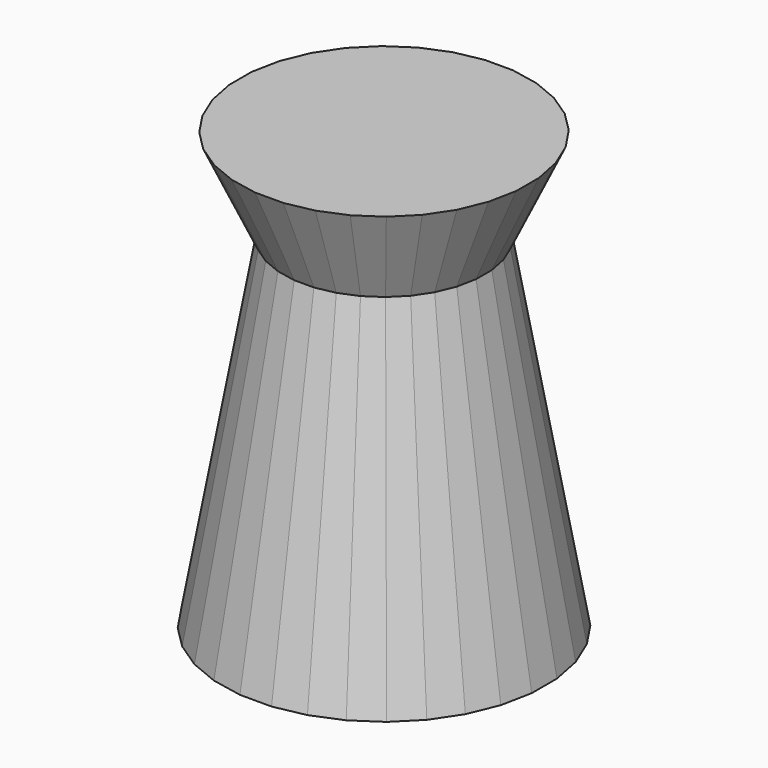
from build123d import *

# Parameters (mm, degrees)
F1_DEPTH      = 50
F1_TAPER      = -25
F1_DEPTH_BACK = 183
F1_TAPER_BACK = -10


with BuildPart() as f1:
    # F0 (on Top) → F1 (new body, two sides)
    with BuildSketch(Plane.XY) as f1_sk:
        Polygon((13.6030390859, -5.2612845288), (13.6030390859, 5.2612845288), (11.5501877, 15.5816653725), (7.5233748557, 25.3032515542), (1.6773487125, 34.0524479689), (-5.7632312236, 41.493027905), (-14.5124276384, 47.3390540483), (-24.2340138201, 51.3658668925), (-34.5543946638, 53.4187182784), (-45.0769637213, 53.4187182784), (-55.397344565, 51.3658668925), (-65.1189307467, 47.3390540483), (-73.8681271614, 41.493027905), (-81.3087070976, 34.0524479689), (-87.1547332408, 25.3032515542), (-91.1815460851, 15.5816653725), (-93.234397471, 5.2612845288), (-93.234397471, -5.2612845288), (-91.1815460851, -15.5816653725), (-87.1547332408, -25.3032515542), (-81.3087070976, -34.0524479689), (-73.8681271614, -41.493027905), (-65.1189307467, -47.3390540483), (-55.397344565, -51.3658668925), (-45.0769637213, -53.4187182784), (-34.5543946638, -53.4187182784), (-24.2340138201, -51.3658668925), (-14.5124276384, -47.3390540483), (-5.7632312236, -41.493027905), (1.6773487125, -34.0524479689), (7.5233748557, -25.3032515542), (11.5501877, -15.5816653725), align=None)
    extrude(amount=F1_DEPTH, taper=F1_TAPER)
    extrude(f1_sk.sketch, amount=-F1_DEPTH_BACK, taper=F1_TAPER_BACK)


solid = f1.part
